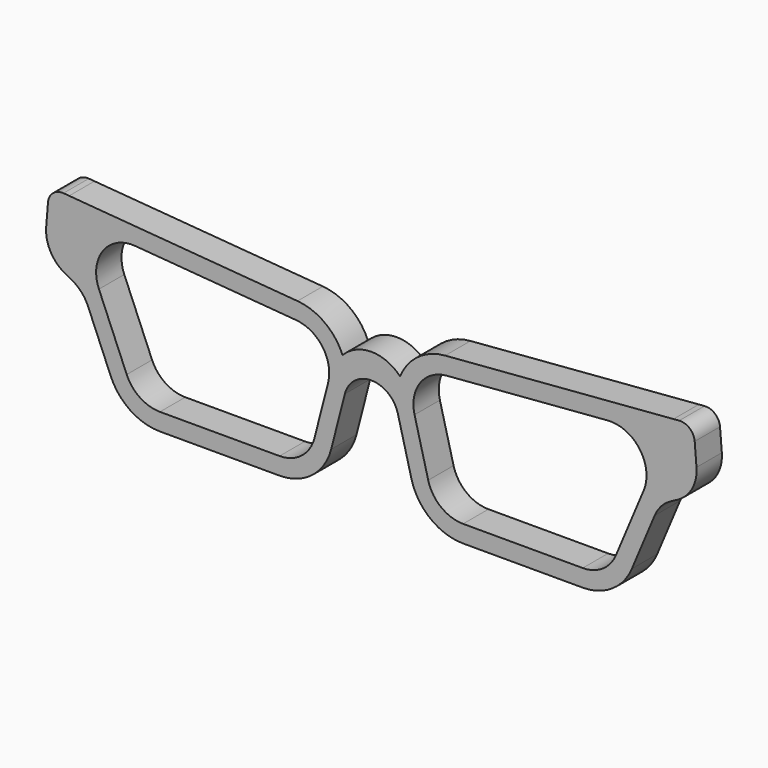
from build123d import *

# Parameters (mm, degrees)
F1_DEPTH = 5.588


with BuildPart() as f1:
    # F0 (on Front) → F1 (new body)
    with BuildSketch(Plane.XZ):
        with BuildLine():
            Line((53.291172, 18.543333), (13.020866, 15.306169))
            ThreePointArc((13.020866, 15.306169), (8.220219, 13.519878), (5.069349, 9.481429))
            ThreePointArc((5.069349, 9.481429), (0, 11.664698), (-5.069349, 9.481429))
            ThreePointArc((-5.069349, 9.481429), (-8.220219, 13.519878), (-13.020866, 15.306169))
            Line((-13.020866, 15.306169), (-53.291172, 18.543333))
            Line((-53.291172, 18.543333), (-54.294899, 18.624018))
            ThreePointArc((-54.294899, 18.624018), (-56.144786, 18.026375), (-57.030255, 16.295709))
            Line((-57.030255, 16.295709), (-57.345963, 12.36831))
            ThreePointArc((-57.345963, 12.36831), (-56.58502, 8.80782), (-53.993372, 6.250578))
            Line((-53.993372, 6.250578), (-52.850243, 5.64385))
            ThreePointArc((-52.850243, 5.64385), (-51.139187, 4.317999), (-49.972896, 2.494442))
            Line((-49.972896, 2.494442), (-45.949789, -7.081689))
            ThreePointArc((-45.949789, -7.081689), (-42.486949, -11.268865), (-37.285366, -12.839609))
            Line((-37.285366, -12.839609), (-16.184041, -12.839609))
            ThreePointArc((-16.184041, -12.839609), (-10.424595, -10.867993), (-7.081708, -5.780402))
            Line((-7.081708, -5.780402), (-4.671571, 3.599593))
            ThreePointArc((-4.671571, 3.599593), (0, 7.222575), (4.671571, 3.599593))
            Line((4.671571, 3.599593), (7.081708, -5.780402))
            ThreePointArc((7.081708, -5.780402), (10.424595, -10.867993), (16.184041, -12.839609))
            Line((16.184041, -12.839609), (37.285366, -12.839609))
            ThreePointArc((37.285366, -12.839609), (42.486949, -11.268865), (45.949789, -7.081689))
            Line((45.949789, -7.081689), (49.972896, 2.494442))
            ThreePointArc((49.972896, 2.494442), (51.139187, 4.317999), (52.850243, 5.64385))
            Line((52.850243, 5.64385), (53.993372, 6.250578))
            ThreePointArc((53.993372, 6.250578), (56.58502, 8.80782), (57.345963, 12.36831))
            Line((57.345963, 12.36831), (57.030255, 16.295709))
            ThreePointArc((57.030255, 16.295709), (56.144786, 18.026375), (54.294899, 18.624018))
            Line((54.294899, 18.624018), (53.291172, 18.543333))
        make_face()
        with BuildLine():
            Line((-16.184041, -9.791608), (-37.285366, -9.791608))
            ThreePointArc((-37.285366, -9.791608), (-40.799949, -8.730295), (-43.139705, -5.901122))
            Line((-43.139705, -5.901122), (-48.039918, 5.76277))
            ThreePointArc((-48.039918, 5.76277), (-47.329092, 11.946095), (-41.67677, 14.551866))
            Line((-41.67677, 14.551866), (-13.265095, 12.267969))
            ThreePointArc((-13.265095, 12.267969), (-8.604077, 9.62558), (-7.623679, 4.358121))
            Line((-7.623679, 4.358121), (-10.033817, -5.021874))
            ThreePointArc((-10.033817, -5.021874), (-12.292524, -8.459436), (-16.184041, -9.791608))
        make_face(mode=Mode.SUBTRACT)
        with BuildLine():
            ThreePointArc((7.623679, 4.358121), (8.604077, 9.62558), (13.265095, 12.267969))
            Line((13.265095, 12.267969), (41.67677, 14.551866))
            ThreePointArc((41.67677, 14.551866), (47.329092, 11.946095), (48.039918, 5.76277))
            Line((48.039918, 5.76277), (43.139705, -5.901122))
            ThreePointArc((43.139705, -5.901122), (40.799949, -8.730295), (37.285366, -9.791608))
            Line((37.285366, -9.791608), (16.184041, -9.791608))
            ThreePointArc((16.184041, -9.791608), (12.292524, -8.459436), (10.033817, -5.021874))
            Line((10.033817, -5.021874), (7.623679, 4.358121))
        make_face(mode=Mode.SUBTRACT)
    extrude(amount=F1_DEPTH)


solid = f1.part
